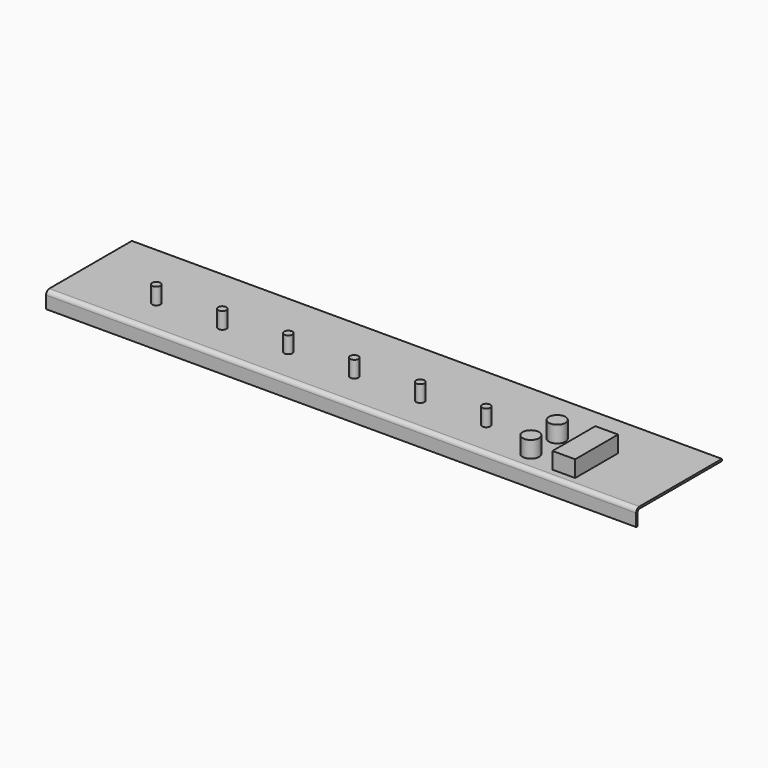
from build123d import *

# Parameters (mm, degrees)
F0_W     = 482.6
F0_H     = 82.55
F1_DEPTH = 12.7
F2_R     = 3.175
F3_T     = -1.524
F4_R     = 3.175
F4_R_2   = 6.35
F4_W     = 17.4625
F4_H     = 41.275
F5_DEPTH = 12.7
F6_W     = 14.1732
F6_H     = 82.55
F7_DEPTH = 25.4


with BuildPart() as f1:
    # F0 (on Top) → F1 (new body)
    with BuildSketch(Plane.XY):
        Rectangle(F0_W, F0_H)
    extrude(amount=-F1_DEPTH)

    # F2
    f2_edges = [f1.edges().sort_by_distance(p)[0] for p in [
        (0, -41.275, 0),
    ]]
    fillet(f2_edges, radius=F2_R)

    # F3
    f3_openings = [f1.faces().sort_by_distance(p)[0] for p in [
        (0, 0, -12.7),
        (241.3, 0.08388, -6.361664),
        (0, 41.275, -6.35),
        (-241.3, 0.08388, -6.361664),
    ]]
    offset(amount=F3_T, openings=f3_openings)

    # F4 (on face) → F5 (join)
    with BuildSketch(Plane.XY):
        with Locations((-114.3, -12.7)):
            Circle(F4_R)
        with Locations((-63.5, -12.7)):
            Circle(F4_R)
        with Locations((-12.7, -12.7)):
            Circle(F4_R)
        with Locations((38.1, -12.7)):
            Circle(F4_R)
        with Locations((88.9, -12.7)):
            Circle(F4_R)
        with Locations((-165.1, -12.7)):
            Circle(F4_R)
        with Locations((133.35, 0)):
            Circle(F4_R_2)
        with Locations((133.35, -25.4)):
            Circle(F4_R_2)
        with Locations((165.1, -12.7)):
            Rectangle(F4_W, F4_H)
    extrude(amount=F5_DEPTH)

    # F6 (on face) → F7 (cut)
    with BuildSketch(Plane.XY):
        with Locations((-234.2134, 0)):
            Rectangle(F6_W, F6_H)
        with Locations((234.2134, 0)):
            Rectangle(F6_W, F6_H)
    extrude(amount=-F7_DEPTH, mode=Mode.SUBTRACT)


solid = f1.part
